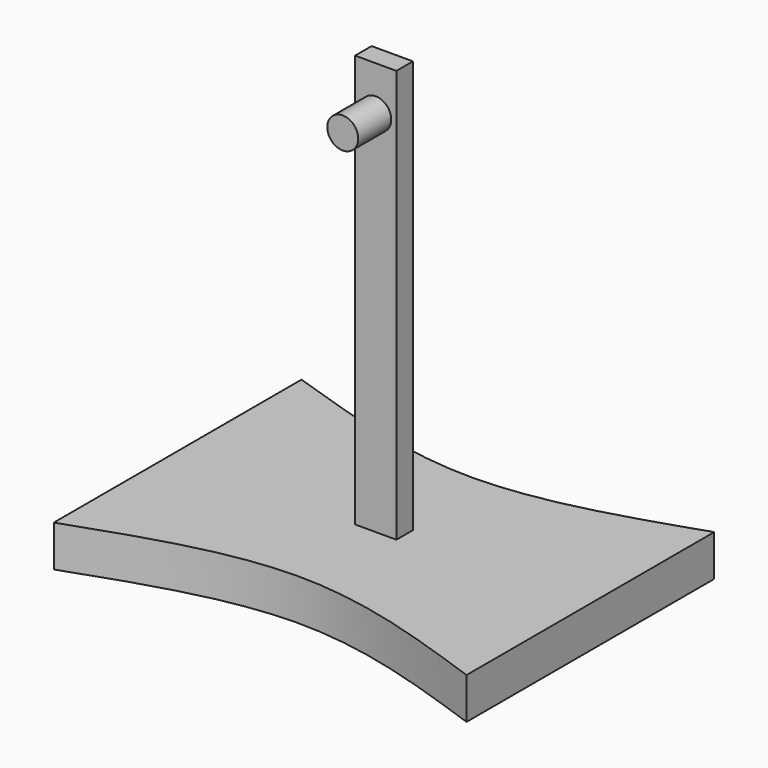
from build123d import *

# Parameters (mm, degrees)
F1_DEPTH = 20
F2_W     = 20
F2_H     = 10
F3_DEPTH = 200
F4_R     = 7.5
F5_DEPTH = 20


with BuildPart() as f1:
    # F0 (on Top) → F1 (new body)
    with BuildSketch(Plane.XY):
        with BuildLine():
            add(Edge.make_bspline(
                [(-100, -75), (-66.666667, -63.279746), (0, -39.839239), (66.666667, -63.279746), (100, -75)],
                knots=[0, 0, 0, 0, 102.710551, 205.421103, 205.421103, 205.421103, 205.421103], degree=3))
            Line((100, -75), (100, 75))
            add(Edge.make_bspline(
                [(-100, 75), (-66.666667, 63.84017), (0, 41.520509), (66.666667, 63.84017), (100, 75)],
                knots=[0, 0, 0, 0, 102.460564, 204.921129, 204.921129, 204.921129, 204.921129], degree=3))
            Line((-100, 75), (-100, -75))
        make_face()
    extrude(amount=F1_DEPTH)

    # F2 (on face) → F3 (join)
    with BuildSketch(Plane.XY.offset(20)):
        Rectangle(F2_W, F2_H)
    extrude(amount=F3_DEPTH)


with BuildPart() as f5:
    # F4 (on face) → F5 (new body)
    with BuildSketch(Plane.XZ.offset(5)):
        with Locations((0, 198.40689)):
            Circle(F4_R)
    extrude(amount=F5_DEPTH)


solid = Compound([f1.part, f5.part])
